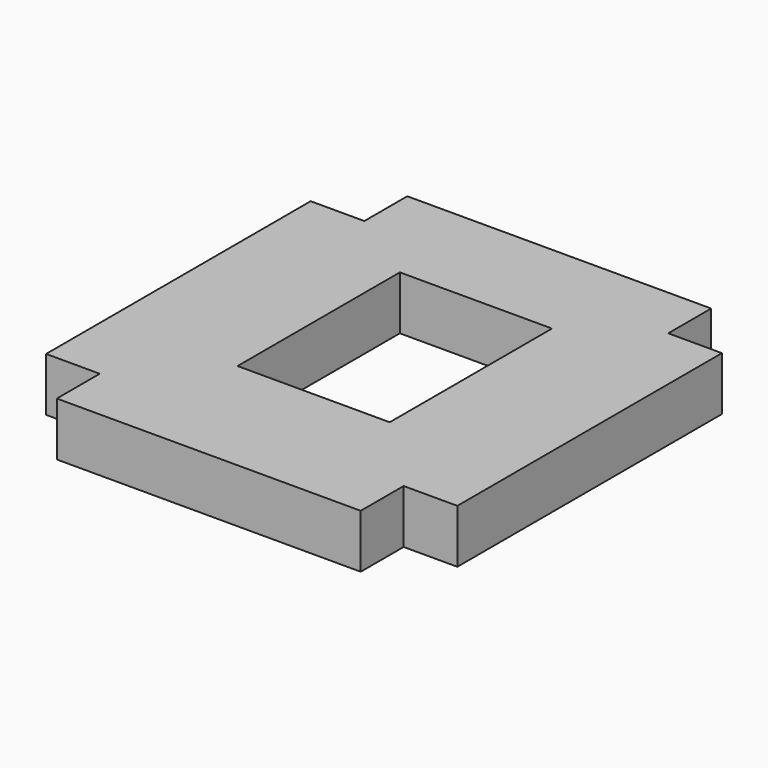
from build123d import *

# Parameters (mm, degrees)
F0_W     = 18
F0_H     = 24
F1_DEPTH = 6.35


with BuildPart() as f1:
    # F0 (on Top) → F1 (new body)
    with BuildSketch(Plane.XY):
        Polygon((17.975, 0), (-17.975, 0), (-17.975, -6.35), (-24.325, -6.35), (-24.325, -45.475), (-17.975, -45.475), (-17.975, -51.825), (17.975, -51.825), (17.975, -45.475), (24.325, -45.475), (24.325, -6.35), (17.975, -6.35), align=None)
        with Locations((0, -24.319)):
            Rectangle(F0_W, F0_H, mode=Mode.SUBTRACT)
    extrude(amount=F1_DEPTH)


solid = f1.part
